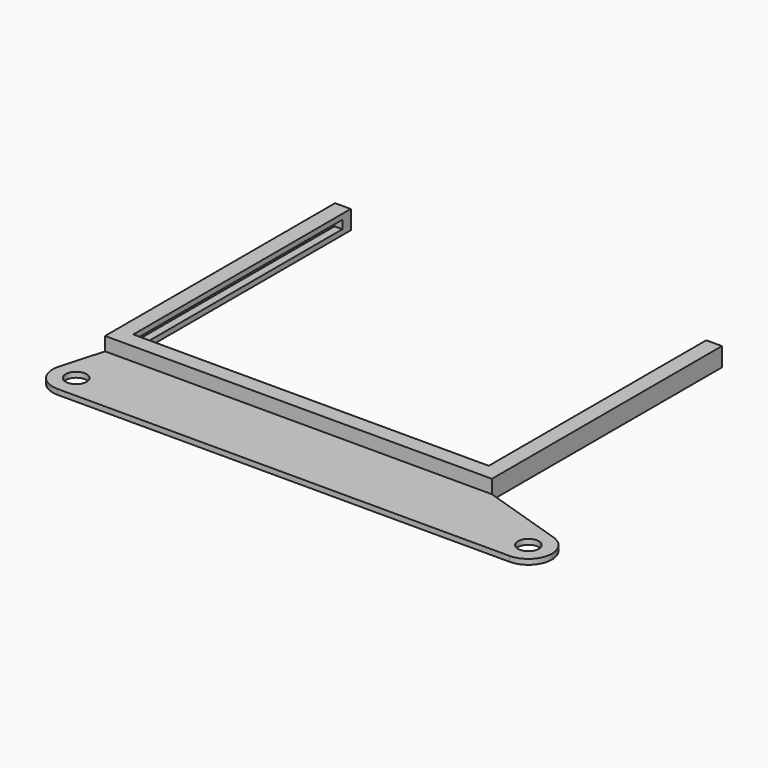
from build123d import *

# Parameters (mm, degrees)
F1_R     = 2
F1_W     = 3
F1_H     = 3
F6_DEPTH = 1
F7_DEPTH = 1.6
F5_W     = 3
F5_H     = 3
F8_DEPTH = 1


with BuildPart() as f6:
    # F1 (on Top) → F6 (new body, through all)
    with BuildSketch(Plane.XY):
        with BuildLine():
            ThreePointArc((-30.5, -38), (-27.318019, -36.681981), (-26, -33.5))
            ThreePointArc((-26, -33.5), (-29.882129, -29.04262), (-34.830327, -32.275961))
            ThreePointArc((-34.830327, -32.275961), (-34.088744, -36.214943), (-30.5, -38))
        make_face()
        with Locations((-30.5, -33.5)):
            Circle(F1_R, mode=Mode.SUBTRACT)
        with BuildLine():
            ThreePointArc((-34.830327, -32.275961), (-29.882129, -29.04262), (-26, -33.5))
            ThreePointArc((-26, -33.5), (-27.318019, -36.681981), (-30.5, -38))
            Line((-30.5, -38), (56, -38))
            ThreePointArc((56, -38), (51.55486, -32.79948), (57.383959, -29.218101))
            Line((57.383959, -29.218101), (41.486443, -24.079841))
            Line((41.486443, -24.079841), (-32.513557, -24.079841))
            Line((-32.513557, -24.079841), (-34.830327, -32.275961))
        make_face()
        Polygon((-32.513557, 27.920159), (-32.513557, -24.079841), (41.486443, -24.079841), (41.486443, 27.920159), (38.486443, 27.920159), (38.486443, -21.079841), (-29.513557, -21.079841), (-29.513557, 27.920159), align=None)
        with BuildLine():
            ThreePointArc((57.383959, -29.218101), (51.55486, -32.79948), (56, -38))
            ThreePointArc((56, -38), (59.181981, -36.681981), (60.5, -33.5))
            ThreePointArc((60.5, -33.5), (59.638531, -30.852153), (57.383959, -29.218101))
        make_face()
        with Locations((56, -33.5)):
            Circle(F1_R, mode=Mode.SUBTRACT)
        with Locations((-31.013557, 29.420159)):
            Rectangle(F1_W, F1_H)
        with Locations((39.986443, 29.420159)):
            Rectangle(F1_W, F1_H)
    extrude(amount=F6_DEPTH)

    # F3 (on offset) → F7 (join, through all)
    with BuildSketch(Plane.XY.offset(1)):
        Polygon((-31.013557, 27.920159), (-32.513557, 27.920159), (-32.513557, -24.079841), (41.486443, -24.079841), (41.486443, 27.920159), (39.986443, 27.920159), (39.986443, -22.579841), (-31.013557, -22.579841), align=None)
        Polygon((-32.513557, 30.920159), (-32.513557, 27.920159), (-31.013557, 27.920159), (-31.013557, 28.920159), (-29.513557, 28.920159), (-29.513557, 30.920159), align=None)
        Polygon((39.986443, 27.920159), (41.486443, 27.920159), (41.486443, 30.920159), (38.486443, 30.920159), (38.486443, 28.920159), (39.986443, 28.920159), align=None)
    extrude(amount=F7_DEPTH)

    # F5 (on offset) → F8 (join)
    with BuildSketch(Plane.XY.offset(2.6)):
        Polygon((-29.513557, 27.920159), (-32.513557, 27.920159), (-32.513557, -24.079841), (41.486443, -24.079841), (41.486443, 27.920159), (38.486443, 27.920159), (38.486443, -21.079841), (-29.513557, -21.079841), align=None)
        with Locations((-31.013557, 29.420159)):
            Rectangle(F5_W, F5_H)
        with Locations((39.986443, 29.420159)):
            Rectangle(F5_W, F5_H)
    extrude(amount=F8_DEPTH)


solid = f6.part
